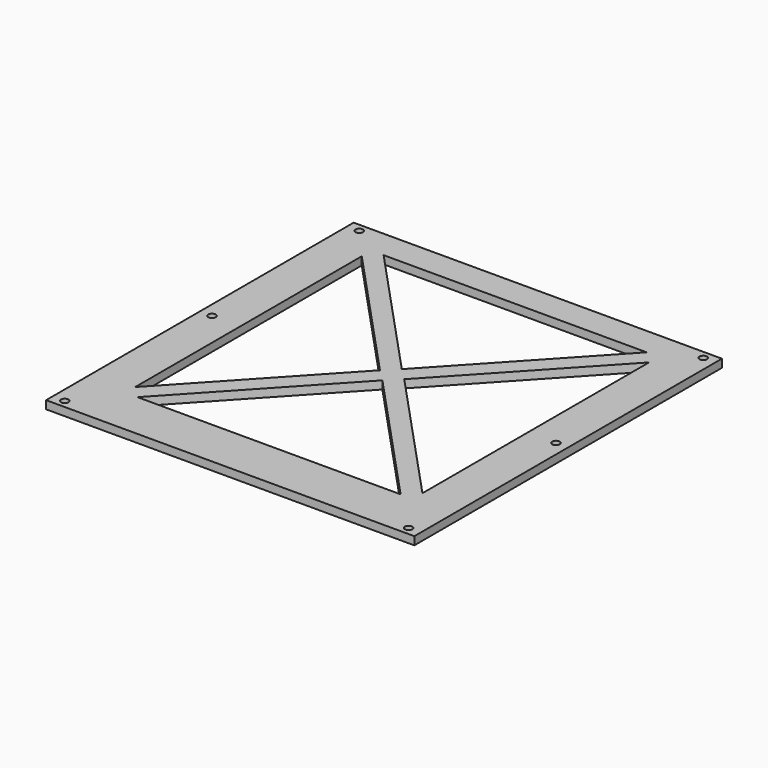
from build123d import *

# Parameters (mm, degrees)
SKETCH001_W            = 182
SKETCH001_H            = 190
PAD_DEPTH              = 4
SKETCH154_R            = 1.85
POCKET004_DEPTH        = 130.001
LINEARPATTERN005_COUNT = 3
LINEARPATTERN005_PITCH = 91


with BuildPart() as part:
    # Sketch001 → Pad (new body)
    with BuildSketch(Plane.XY):
        with Locations((0, -5)):
            Rectangle(SKETCH001_W, SKETCH001_H)
        Polygon((-65, 76), (0, 6), (65, 76), align=None, mode=Mode.SUBTRACT)
        Polygon((-71, 70), (-6, 0), (-71, -70), align=None, mode=Mode.SUBTRACT)
        Polygon((-65, -76), (0, -6), (65, -76), align=None, mode=Mode.SUBTRACT)
        Polygon((71, -70), (6, 0), (71, 70), align=None, mode=Mode.SUBTRACT)
    extrude(amount=PAD_DEPTH)

    # Sketch154 → Pocket004 (cut, through all)
    with BuildSketch(Plane.XY.offset(130)):
        with Locations((-85, 86)):
            Circle(SKETCH154_R)
        with Locations((85, 86)):
            Circle(SKETCH154_R)
    pocket004 = extrude(amount=-POCKET004_DEPTH, mode=Mode.SUBTRACT)

    # LinearPattern005: Pocket004 ×3
    with Locations(*[(0, -i * LINEARPATTERN005_PITCH, 0) for i in range(1, LINEARPATTERN005_COUNT)]):
        add(pocket004, mode=Mode.SUBTRACT)


with BuildPart() as part_1:
    # Body placement: moved
    add(part.part.moved(Location((0, 0, 4))))


solid = part_1.part
